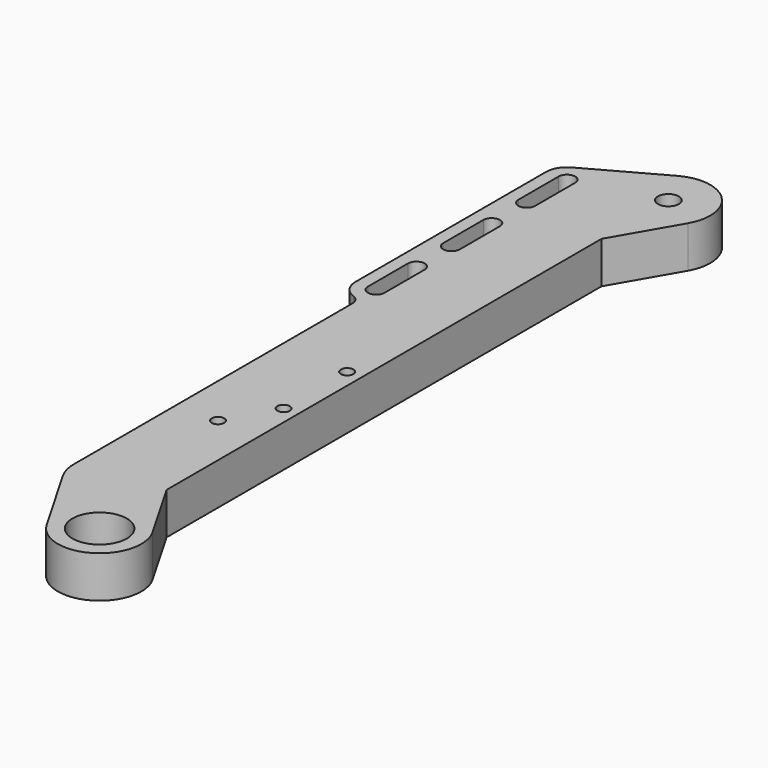
from build123d import *

# Parameters (mm, degrees)
SKETCH_R     = 6.5
SKETCH_R_2   = 2.5
SKETCH_R_3   = 1.5
PAD_DEPTH    = 10
FILLET_R     = 2.5
POCKET_DEPTH = 5


with BuildPart() as part:
    # Sketch → Pad (new body)
    with BuildSketch(Plane.XY):
        with BuildLine():
            ThreePointArc((-8.660254, -5), (5, -8.660254), (8.660254, 5))
            Line((8.660254, 5), (0, 20))
            Line((0, 150), (0, 20))
            Line((0, 150), (8.660254, 165))
            ThreePointArc((8.660254, 165), (7.138618, 177.002866), (-4.832824, 178.754645))
            Line((-4.832824, 178.754645), (-22.414778, 169.048885))
            ThreePointArc((-22.414778, 169.048885), (-24.304296, 167.213013), (-24.998366, 164.671563))
            Line((-24.998366, 164.671563), (-24.998366, 107.671563))
            ThreePointArc((-24.998366, 107.671563), (-23.534478, 104.136606), (-20, 102.671563))
            Line((-20, 17.320508), (-20, 102.671563))
            ThreePointArc((-20, 17.320508), (-19.659258, 14.732318), (-18.660254, 12.320508))
            Line((-8.660254, -5), (-18.660254, 12.320508))
        make_face()
        Circle(SKETCH_R, mode=Mode.SUBTRACT)
        with Locations((0, 170)):
            Circle(SKETCH_R_2, mode=Mode.SUBTRACT)
        with Locations((-3.5, 78.364)):
            Circle(SKETCH_R_3, mode=Mode.SUBTRACT)
        with Locations((-3.5, 59.364)):
            Circle(SKETCH_R_3, mode=Mode.SUBTRACT)
        with Locations((-10, 47.874)):
            Circle(SKETCH_R_3, mode=Mode.SUBTRACT)
        with BuildLine():
            ThreePointArc((-21.998366, 107.671563), (-19.998366, 105.671563), (-17.998366, 107.671563))
            Line((-17.998366, 107.671563), (-17.998366, 119.671563))
            ThreePointArc((-17.998366, 119.671563), (-19.998366, 121.671563), (-21.998366, 119.671563))
            Line((-21.998366, 119.671563), (-21.998366, 107.671563))
        make_face(mode=Mode.SUBTRACT)
        with BuildLine():
            ThreePointArc((-17.998366, 164.671563), (-19.998366, 166.671563), (-21.998366, 164.671563))
            Line((-21.998366, 164.671563), (-21.998366, 152.671563))
            ThreePointArc((-21.998366, 152.671563), (-19.998366, 150.671563), (-17.998366, 152.671563))
            Line((-17.998366, 152.671563), (-17.998366, 164.671563))
        make_face(mode=Mode.SUBTRACT)
        with BuildLine():
            ThreePointArc((-17.998366, 142.171563), (-19.998366, 144.171563), (-21.998366, 142.171563))
            Line((-21.998366, 142.171563), (-21.998366, 130.171563))
            ThreePointArc((-21.998366, 130.171563), (-19.998366, 128.171563), (-17.998366, 130.171563))
            Line((-17.998366, 130.171563), (-17.998366, 142.171563))
        make_face(mode=Mode.SUBTRACT)
    extrude(amount=PAD_DEPTH)

    # Fillet
    fillet_edges = [part.edges().sort_by_distance(p)[0] for p in [
        (-20, 102.671563, 5),
    ]]
    fillet(fillet_edges, radius=FILLET_R)

    # Sketch001 (on Face2 of Fillet) → Pocket (cut)
    with BuildSketch(Plane(origin=(0, 0, 0), x_dir=(1, 0, 0), z_dir=(0, 0, -1))):
        Polygon((-3.5, -81.539426), (-0.75, -79.951713), (-0.75, -76.776287), (-3.5, -75.188574), (-6.25, -76.776287), (-6.25, -79.951713), align=None)
        Polygon((-3.5, -62.539426), (-0.75, -60.951713), (-0.75, -57.776287), (-3.5, -56.188574), (-6.25, -57.776287), (-6.25, -60.951713), align=None)
        Polygon((-10, -51.049426), (-7.25, -49.461713), (-7.25, -46.286287), (-10, -44.698574), (-12.75, -46.286287), (-12.75, -49.461713), align=None)
    extrude(amount=-POCKET_DEPTH, mode=Mode.SUBTRACT)


solid = part.part
